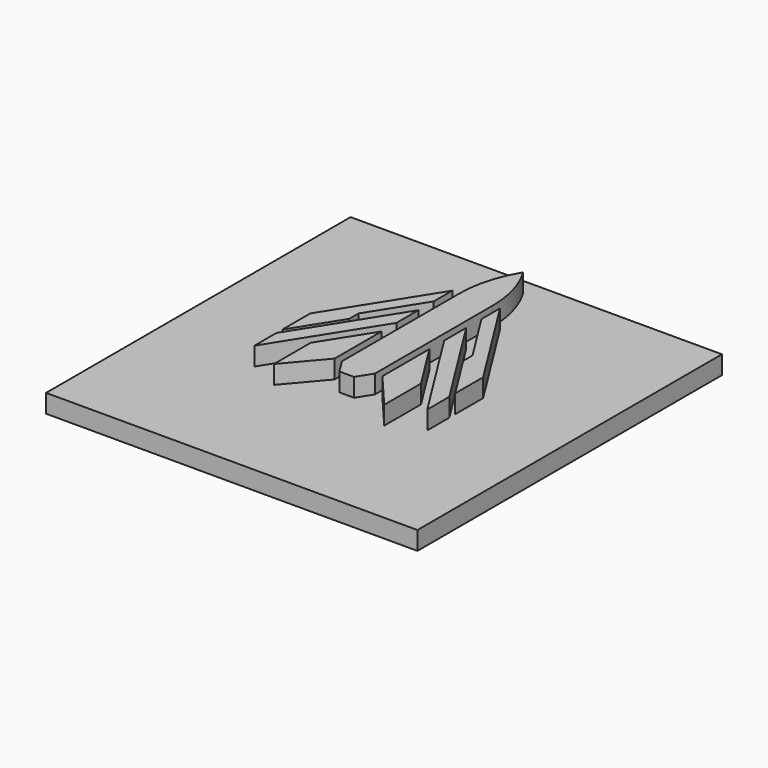
from build123d import *

# Parameters (mm, degrees)
PAD_DEPTH    = 10
SKETCH002_W  = 201.991504
SKETCH002_H  = 207.023942
PAD001_DEPTH = 10
PAD002_DEPTH = 10
PAD003_DEPTH = 10
PAD004_DEPTH = 10


with BuildPart() as part:
    # Sketch → Pad (new body)
    with BuildSketch(Plane.XY):
        with BuildLine():
            Line((-9, 62.657148), (-9, -17.342852))
            Line((-9, -17.342852), (-4, -25.342852))
            Line((-4, -25.342852), (4, -25.342852))
            Line((4, -25.342852), (9, -17.342852))
            Line((9, -17.342852), (9, 62.657148))
            ThreePointArc((9, 62.657148), (6.707183, 79.277918), (0, 94.657148))
            ThreePointArc((0, 94.657148), (-6.707183, 79.277918), (-9, 62.657148))
        make_face()
    extrude(amount=PAD_DEPTH)

    # Sketch002 → Pad001 (join)
    with BuildSketch(Plane.XY):
        Rectangle(SKETCH002_W, SKETCH002_H)
    extrude(amount=-PAD001_DEPTH)

    # Sketch001 → Pad002 (join)
    with BuildSketch(Plane.XY):
        Polygon((13, 14.657148), (13, -17.342852), (30, -37.342852), (30, -12.342852), align=None)
        Polygon((-13, 14.657148), (-13, -17.342852), (-30, -37.342852), (-30, -12.342852), align=None)
    extrude(amount=PAD002_DEPTH)

    # Sketch003 → Pad003 (join)
    with BuildSketch(Plane.XY):
        Polygon((13, 24.657148), (13, 39.657148), (47, -14.342852), (47, -29.342852), align=None)
        Polygon((-13, 39.657148), (-13, 24.657148), (-47, -29.342852), (-47, -14.342852), align=None)
    extrude(amount=PAD003_DEPTH)

    # Sketch004 → Pad004 (join)
    with BuildSketch(Plane.XY):
        Polygon((13, 49.997148), (13, 62.657148), (47, 8.657148), (47, -10.342852), (30.983169, 15.095644), (30.983169, 21.435644), align=None)
        Polygon((-13, 62.657148), (-13, 49.997148), (-30.983169, 21.435644), (-30.983169, 15.095644), (-47, -10.342852), (-47, 8.657148), align=None)
    extrude(amount=PAD004_DEPTH)


solid = part.part
